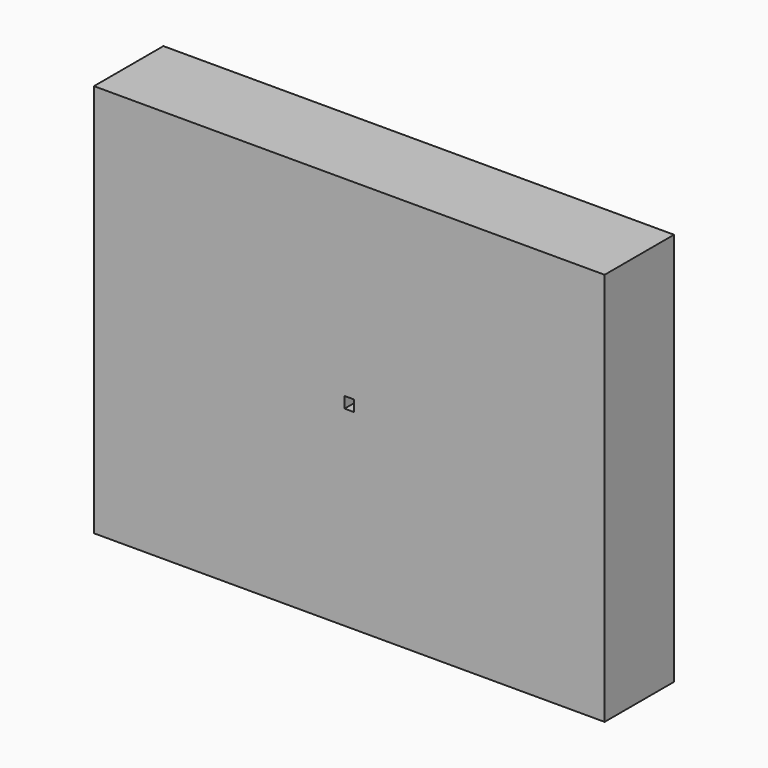
from build123d import *

# Parameters (mm, degrees)
F1_DEPTH = 25.4
F2_DEPTH = 25.4
F3_DEPTH = 25.4
F4_DEPTH = 25.4
F5_DEPTH = 25.4
F6_DEPTH = 25.4
F7_DEPTH = 25.4
F8_DEPTH = 25.4


with BuildPart() as f1:
    # F0 (on Front) → F1 (new body)
    with BuildSketch(Plane.XZ):
        Polygon((-66.7927114991, 33.1945642829), (-64.1307688012, 33.1945642829), (-76.1674283869, 42.9970185669), (-76.1674283869, -72.256666741), (-64.1307688012, -62.4542124569), (-66.7927114991, -62.4542124569), align=None)
        Polygon((-64.1307688012, 33.1945642829), (61.9984398217, 33.1945642829), (73.3423603098, 42.9970185669), (-76.1674283869, 42.9970185669), align=None)
        Polygon((73.3423603098, 42.9970185669), (61.9984398217, 33.1945642829), (63.9676434221, 33.1945642829), (63.9676434221, -62.4542124569), (61.3057007242, -62.4542124569), (73.3423603098, -72.256666741), align=None)
        Polygon((73.3423603098, -72.256666741), (61.3057007242, -62.4542124569), (-64.1307688012, -62.4542124569), (-76.1674283869, -72.256666741), align=None)
    extrude(amount=F1_DEPTH)

    # F0 (on Front) → F2 (join)
    with BuildSketch(Plane.XZ):
        Polygon((-56.703176233, 23.9121932536), (-52.7327314332, 23.9121932536), (-64.1307688012, 33.1945642829), (-66.7927114991, 33.1945642829), (-66.7927114991, -62.4542124569), (-64.1307688012, -62.4542124569), (-52.7327314332, -53.1718414277), (-56.703176233, -53.1718414277), align=None)
        Polygon((-52.7327314332, 23.9121932536), (51.2563872861, 23.9121932536), (61.9984398217, 33.1945642829), (-64.1307688012, 33.1945642829), align=None)
        Polygon((61.9984398217, 33.1945642829), (51.2563872861, 23.9121932536), (53.8781081559, 23.9121932536), (53.8781081559, -53.1718414277), (49.9076633562, -53.1718414277), (61.3057007242, -62.4542124569), (63.9676434221, -62.4542124569), (63.9676434221, 33.1945642829), align=None)
        Polygon((61.3057007242, -62.4542124569), (49.9076633562, -53.1718414277), (-52.7327314332, -53.1718414277), (-64.1307688012, -62.4542124569), align=None)
    extrude(amount=F2_DEPTH)

    # F0 (on Front) → F3 (join)
    with BuildSketch(Plane.XZ):
        Polygon((-47.0172277419, 15.8405667171), (-42.8213951385, 15.8405667171), (-52.7327314332, 23.9121932536), (-56.703176233, 23.9121932536), (-56.703176233, -53.1718414277), (-52.7327314332, -53.1718414277), (-42.8213951385, -45.1002148911), (-47.0172277419, -45.1002148911), align=None)
        Polygon((-42.8213951385, 15.8405667171), (41.9154725532, 15.8405667171), (51.2563872861, 23.9121932536), (-52.7327314332, 23.9121932536), align=None)
        Polygon((51.2563872861, 23.9121932536), (41.9154725532, 15.8405667171), (44.1921596648, 15.8405667171), (44.1921596648, -45.1002148911), (39.9963270614, -45.1002148911), (49.9076633562, -53.1718414277), (53.8781081559, -53.1718414277), (53.8781081559, 23.9121932536), align=None)
        Polygon((49.9076633562, -53.1718414277), (39.9963270614, -45.1002148911), (-42.8213951385, -45.1002148911), (-52.7327314332, -53.1718414277), align=None)
    extrude(amount=F3_DEPTH)

    # F0 (on Front) → F4 (join)
    with BuildSketch(Plane.XZ):
        Polygon((-37.73485485, 9.7868470475), (-35.3878932033, 9.7868470475), (-42.8213951385, 15.8405667171), (-47.0172277419, 15.8405667171), (-47.0172277419, -45.1002148911), (-42.8213951385, -45.1002148911), (-35.3878932033, -39.0464952216), (-37.73485485, -39.0464952216), align=None)
        Polygon((-35.3878932033, 9.7868470475), (34.9097867729, 9.7868470475), (41.9154725532, 15.8405667171), (-42.8213951385, 15.8405667171), align=None)
        Polygon((41.9154725532, 15.8405667171), (34.9097867729, 9.7868470475), (34.9097867729, -39.0464952216), (32.5628251262, -39.0464952216), (39.9963270614, -45.1002148911), (44.1921596648, -45.1002148911), (44.1921596648, 15.8405667171), align=None)
        Polygon((39.9963270614, -45.1002148911), (32.5628251262, -39.0464952216), (-35.3878932033, -39.0464952216), (-42.8213951385, -45.1002148911), align=None)
    extrude(amount=F4_DEPTH)

    # F0 (on Front) → F5 (join)
    with BuildSketch(Plane.XZ):
        Polygon((-23.3703981031, -29.259648174), (-23.3703981031, 0), (-35.3878932033, 9.7868470475), (-37.73485485, 9.7868470475), (-37.73485485, -39.0464952216), (-35.3878932033, -39.0464952216), align=None)
        Polygon((-11.5020675585, 0), (13.5026567167, 0), (20.545330026, 0), (34.9097867729, 9.7868470475), (-35.3878932033, 9.7868470475), (-23.3703981031, 0), align=None)
        Polygon((34.9097867729, 9.7868470475), (20.545330026, 0), (20.545330026, -29.259648174), (32.5628251262, -39.0464952216), (34.9097867729, -39.0464952216), align=None)
        Polygon((32.5628251262, -39.0464952216), (20.545330026, -29.259648174), (-23.3703981031, -29.259648174), (-35.3878932033, -39.0464952216), align=None)
    extrude(amount=F5_DEPTH)

    # F0 (on Front) → F6 (join)
    with BuildSketch(Plane.XZ):
        Polygon((-16.3277247938, -2.6278241763), (-23.3703981031, 0), (-23.3703981031, -29.259648174), (-16.3277247938, -26.6318239978), align=None)
        Polygon((20.545330026, 0), (13.5026567167, 0), (-11.5020675585, 0), (-23.3703981031, 0), (-16.3277247938, -2.6278241763), (13.5026567167, -2.6278241763), align=None)
        Polygon((20.545330026, -29.259648174), (20.545330026, 0), (13.5026567167, -2.6278241763), (13.5026567167, -26.6318239978), align=None)
        Polygon((-23.3703981031, -29.259648174), (20.545330026, -29.259648174), (13.5026567167, -26.6318239978), (-16.3277247938, -26.6318239978), align=None)
    extrude(amount=F6_DEPTH)

    # F0 (on Front) → F7 (join)
    with BuildSketch(Plane.XZ):
        Polygon((-5.8775561365, -8.2857954661), (-16.3277247938, -2.6278241763), (-16.3277247938, -26.6318239978), (-7.8231978195, -20.973852708), (-7.8231978195, -8.2857954661), align=None)
        Polygon((4.9981297424, -8.2857954661), (13.5026567167, -2.6278241763), (-16.3277247938, -2.6278241763), (-5.8775561365, -8.2857954661), align=None)
        Polygon((13.5026567167, -26.6318239978), (13.5026567167, -2.6278241763), (4.9981297424, -8.2857954661), (4.9981297424, -20.973852708), align=None)
        Polygon((-16.3277247938, -26.6318239978), (13.5026567167, -26.6318239978), (4.9981297424, -20.973852708), (-7.8231978195, -20.973852708), align=None)
    extrude(amount=F7_DEPTH)

    # F0 (on Front) → F8 (join)
    with BuildSketch(Plane.XZ):
        Polygon((-7.8231978195, -20.973852708), (4.9981297424, -20.973852708), (-0.0295912258, -16.2605091053), (-2.7954768513, -16.2605091053), align=None)
        Polygon((-7.8231978195, -8.2857954661), (-7.8231978195, -20.973852708), (-2.7954768513, -16.2605091053), (-2.7954768513, -12.9991390688), align=None)
        Polygon((-0.0295912258, -12.9991390688), (4.9981297424, -8.2857954661), (-5.8775561365, -8.2857954661), (-7.8231978195, -8.2857954661), (-2.7954768513, -12.9991390688), align=None)
        Polygon((4.9981297424, -20.973852708), (4.9981297424, -8.2857954661), (-0.0295912258, -12.9991390688), (-0.0295912258, -16.2605091053), align=None)
    extrude(amount=F8_DEPTH)


solid = f1.part
